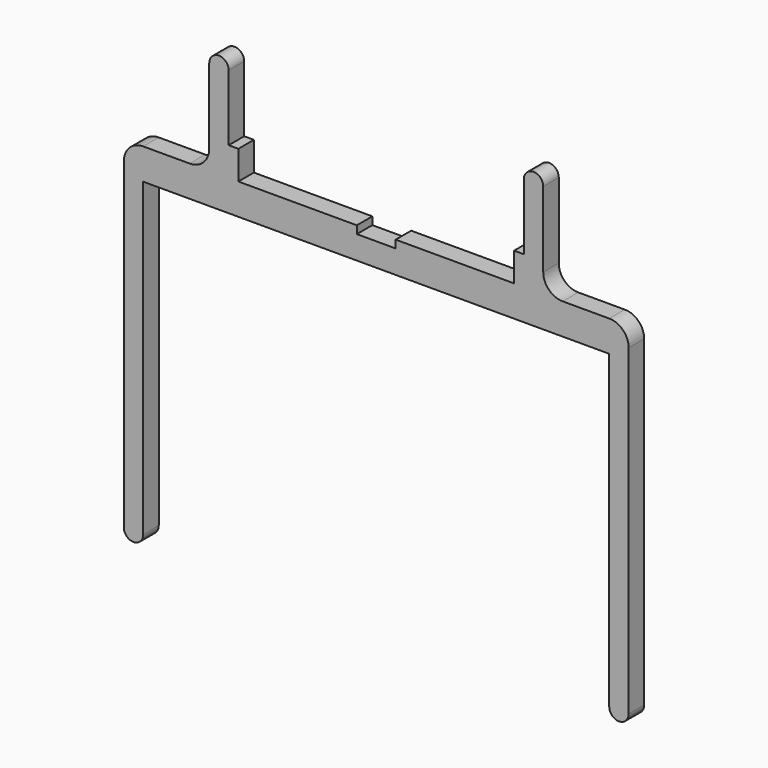
from build123d import *

# Parameters (mm, degrees)
F1_DEPTH = 5
F2_W     = 10
F2_H     = 4
F3_DEPTH = 25
F4_R     = 5
F5_R     = 5


with BuildPart() as f1:
    # F0 (on Front) → F1 (new body)
    with BuildSketch(Plane.XZ):
        with BuildLine():
            Line((-60, -80), (-60, 0))
            Line((-60, 0), (0, 0))
            Line((0, 0), (60, 0))
            Line((60, 0), (60, -80))
            ThreePointArc((60, -80), (62.5, -82.5), (65, -80))
            Line((65, -80), (65, 8))
            Line((65, 8), (60, 8))
            Line((60, 8), (43, 8))
            Line((43, 8), (43, 32.420063))
            ThreePointArc((43, 32.420063), (40.5, 34.920063), (38, 32.420063))
            Line((38, 32.420063), (38, 15.420063))
            Line((38, 15.420063), (35.5, 15.420063))
            Line((35.5, 15.420063), (35.5, 8))
            Line((35.5, 8), (0, 8))
            Line((0, 8), (-35.5, 8))
            Line((-35.5, 8), (-35.5, 15.420063))
            Line((-35.5, 15.420063), (-38, 15.420063))
            Line((-38, 15.420063), (-38, 32.420063))
            ThreePointArc((-38, 32.420063), (-40.5, 34.920063), (-43, 32.420063))
            Line((-43, 32.420063), (-43, 8))
            Line((-43, 8), (-60, 8))
            Line((-60, 8), (-65, 8))
            Line((-65, 8), (-65, -80))
            ThreePointArc((-65, -80), (-62.5, -82.5), (-60, -80))
        make_face()
    extrude(amount=F1_DEPTH)

    # F2 (on Front) → F3 (cut)
    with BuildSketch(Plane.XZ):
        with Locations((0, 8)):
            Rectangle(F2_W, F2_H)
    extrude(amount=F3_DEPTH, mode=Mode.SUBTRACT)

    # F4
    f4_edges = [f1.edges().sort_by_distance(p)[0] for p in [
        (-65, -2.5, 8),
        (65, -2.5, 8),
    ]]
    fillet(f4_edges, radius=F4_R)

    # F5
    f5_edges = [f1.edges().sort_by_distance(p)[0] for p in [
        (-43, -2.5, 8),
        (43, -2.5, 8),
    ]]
    fillet(f5_edges, radius=F5_R)


solid = f1.part
